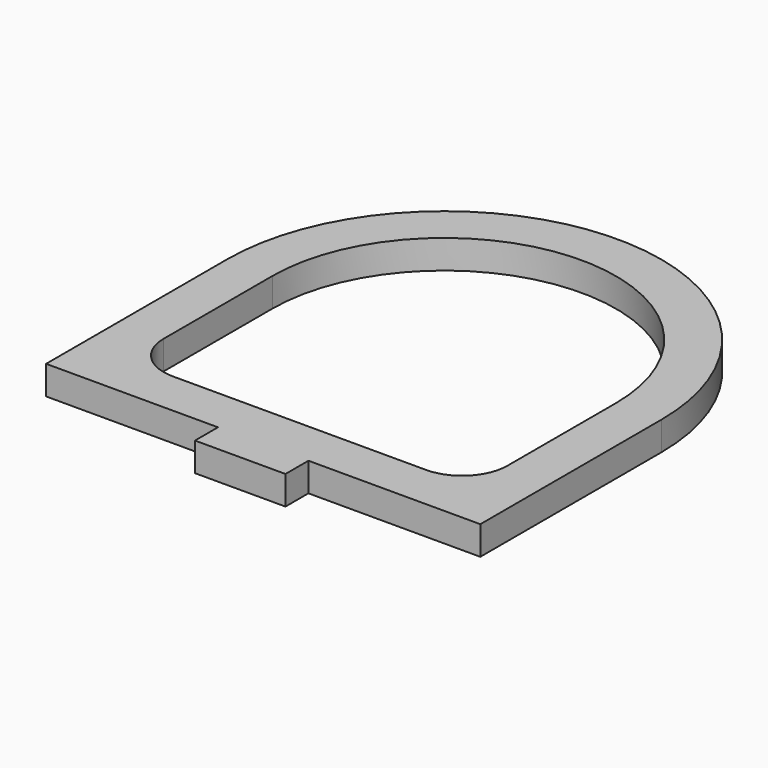
from build123d import *

# Parameters (mm, degrees)
F1_DEPTH = 3.175


with BuildPart() as f1:
    # F0 (on Top) → F1 (new body)
    with BuildSketch(Plane.XY):
        with BuildLine():
            Line((-25.744793, 17.416838), (-25.744793, -7.583162))
            Line((-25.744793, -7.583162), (-6.745631, -7.583162))
            Line((-6.745631, -7.583162), (-6.745631, -10.758162))
            Line((-6.745631, -10.758162), (3.254369, -10.758162))
            Line((3.254369, -10.758162), (3.254369, -7.583162))
            Line((3.254369, -7.583162), (22.253532, -7.583162))
            Line((22.253532, -7.583162), (22.253532, 17.416838))
            ThreePointArc((22.253532, 17.416838), (-1.745631, 41.416), (-25.744793, 17.416838))
        make_face()
        with BuildLine():
            ThreePointArc((-20.744793, 17.416838), (-1.745631, 36.416), (17.253532, 17.416838))
            Line((17.253532, 17.416838), (17.253532, 12.416838))
            Line((17.253532, 12.416838), (17.253532, 2.416838))
            ThreePointArc((17.253532, 2.416838), (15.789066, -1.118696), (12.253532, -2.583162))
            Line((12.253532, -2.583162), (3.254369, -2.583162))
            Line((3.254369, -2.583162), (-6.745631, -2.583162))
            Line((-6.745631, -2.583162), (-15.744793, -2.583162))
            ThreePointArc((-15.744793, -2.583162), (-19.280327, -1.118696), (-20.744793, 2.416838))
            Line((-20.744793, 2.416838), (-20.744793, 12.416838))
            Line((-20.744793, 12.416838), (-20.744793, 17.416838))
        make_face(mode=Mode.SUBTRACT)
    extrude(amount=F1_DEPTH)


solid = f1.part
